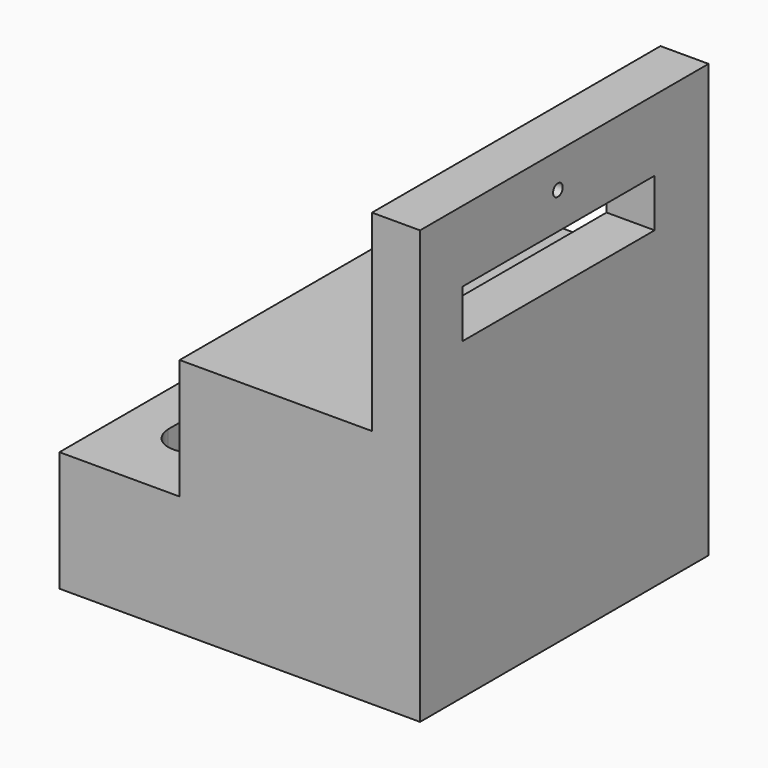
from build123d import *

# Parameters (mm, degrees)
F1_DEPTH = 150
F2_W     = 100
F2_H     = 20
F3_DEPTH = 20.001
F4_W     = 20
F4_H     = 80
F6_DEPTH = 25
F7_DEPTH = 25
F8_R     = 2.5
F9_DEPTH = 20.001


with BuildPart() as f1:
    # F0 (on Front) → F1 (new body)
    with BuildSketch(Plane.XZ):
        Polygon((75, -90), (75, 90), (55, 90), (55, 10), (-25, 10), (-25, -40), (-75, -40), (-75, -90), align=None)
        Polygon((75, -90), (75, 90), (55, 90), (55, 10), (-25, 10), (-25, -40), (-75, -40), (-75, -90), align=None)
    extrude(amount=F1_DEPTH)

    # F2 (on face) → F3 (cut, through all)
    with BuildSketch(Plane(origin=(55, 0, 0), x_dir=(0, -1, 0), z_dir=(-1, 0, 0))):
        with Locations((78.036222, 50.444517)):
            Rectangle(F2_W, F2_H)
    extrude(amount=-F3_DEPTH, mode=Mode.SUBTRACT)

    # F4 (on face) → F6 (cut)
    with BuildSketch(Plane.XY.offset(-40)):
        with Locations((-47.512008, -75.5594)):
            Rectangle(F4_W, F4_H)
    extrude(amount=-F6_DEPTH, mode=Mode.SUBTRACT)

    # F5 (on face) → F7 (cut)
    with BuildSketch(Plane.XY.offset(-40)):
        with BuildLine():
            Line((-37.399707, -115.419537), (-37.400242, -35.966876))
            ThreePointArc((-37.400242, -35.966876), (-47.195959, -25.865494), (-57.395084, -35.5594))
            Line((-57.395084, -35.5594), (-37.512008, -35.5594))
            Line((-37.512008, -35.5594), (-37.512008, -115.5594))
            Line((-37.512008, -115.5594), (-57.398729, -115.5594))
            ThreePointArc((-57.398729, -115.5594), (-47.329774, -125.419292), (-37.399707, -115.419537))
        make_face()
    extrude(amount=-F7_DEPTH, mode=Mode.SUBTRACT)

    # F8 (on face) → F9 (cut, through all)
    with BuildSketch(Plane(origin=(55, 0, 0), x_dir=(0, -1, 0), z_dir=(-1, 0, 0))):
        with Locations((78.338511, 75.63369)):
            Circle(F8_R)
    extrude(amount=-F9_DEPTH, mode=Mode.SUBTRACT)


solid = f1.part
